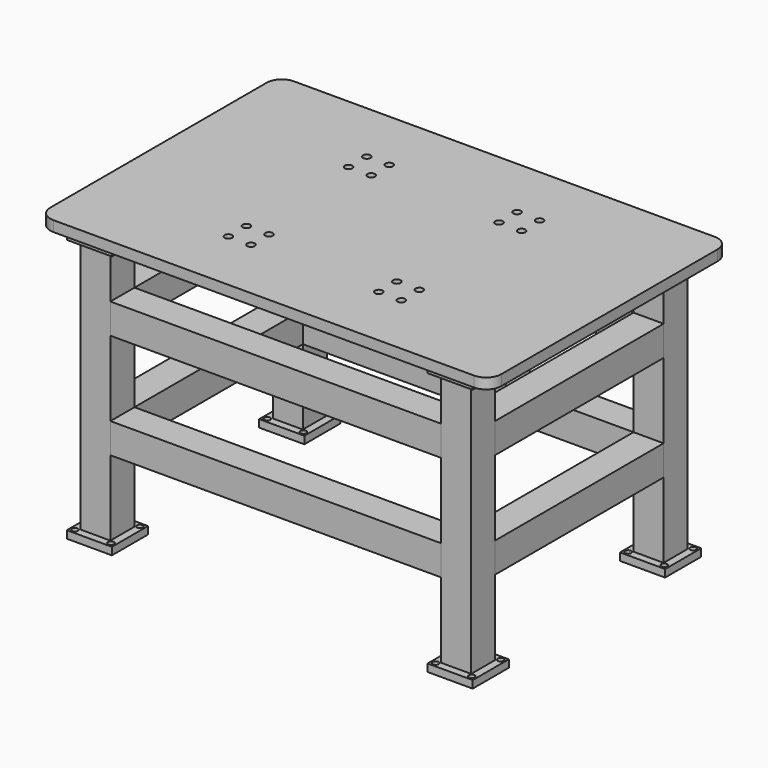
from build123d import *

# Parameters (mm, degrees)
F0_W      = 150
F0_H      = 150
F0_R      = 10
F1_DEPTH  = 25
F2_W      = 100
F2_H      = 100
F2_W_2    = 90
F2_H_2    = 90
F3_DEPTH  = 850
F4_W      = 150
F4_H      = 150
F4_R      = 10
F5_DEPTH  = 25
F6_W      = 100
F6_H      = 100
F6_W_2    = 90
F6_H_2    = 90
F7_DEPTH  = 1100
F8_W      = 100
F8_H      = 100
F8_W_2    = 90
F8_H_2    = 90
F9_DEPTH  = 700
F10_W     = 1500
F10_H     = 1000
F11_DEPTH = 35
F12_R     = 10
F13_DEPTH = 20
F14_R     = 50
F15_R     = 12.5
F16_DEPTH = 35


with BuildPart() as f1:
    # F0 (on Top) → F1 (new body)
    with BuildSketch(Plane.XY):
        with Locations((-600, 400)):
            Rectangle(F0_W, F0_H)
        with Locations((-660, 340)):
            Circle(F0_R, mode=Mode.SUBTRACT)
        with Locations((-540, 340)):
            Circle(F0_R, mode=Mode.SUBTRACT)
        with Locations((-660, 460)):
            Circle(F0_R, mode=Mode.SUBTRACT)
        with Locations((-540, 460)):
            Circle(F0_R, mode=Mode.SUBTRACT)
        with Locations((600, 400)):
            Rectangle(F0_W, F0_H)
        with Locations((540, 340)):
            Circle(F0_R, mode=Mode.SUBTRACT)
        with Locations((660, 340)):
            Circle(F0_R, mode=Mode.SUBTRACT)
        with Locations((540, 460)):
            Circle(F0_R, mode=Mode.SUBTRACT)
        with Locations((660, 460)):
            Circle(F0_R, mode=Mode.SUBTRACT)
        Polygon((675, -475), (675, -325), (525, -325), (525, -400), (525, -475), align=None)
        with Locations((540, -460)):
            Circle(F0_R, mode=Mode.SUBTRACT)
        with Locations((660, -460)):
            Circle(F0_R, mode=Mode.SUBTRACT)
        with Locations((540, -340)):
            Circle(F0_R, mode=Mode.SUBTRACT)
        with Locations((660, -340)):
            Circle(F0_R, mode=Mode.SUBTRACT)
        Polygon((-525, -475), (-525, -400), (-525, -325), (-675, -325), (-675, -475), align=None)
        with Locations((-660, -460)):
            Circle(F0_R, mode=Mode.SUBTRACT)
        with Locations((-540, -460)):
            Circle(F0_R, mode=Mode.SUBTRACT)
        with Locations((-660, -340)):
            Circle(F0_R, mode=Mode.SUBTRACT)
        with Locations((-540, -340)):
            Circle(F0_R, mode=Mode.SUBTRACT)
    extrude(amount=F1_DEPTH)

    # F2 (on face) → F3 (join)
    with BuildSketch(Plane.XY.offset(25)):
        with Locations((-600, 400)):
            Rectangle(F2_W, F2_H)
        with Locations((-600, 400)):
            Rectangle(F2_W_2, F2_H_2, mode=Mode.SUBTRACT)
        with Locations((600, 400)):
            Rectangle(F2_W, F2_H)
        with Locations((600, 400)):
            Rectangle(F2_W_2, F2_H_2, mode=Mode.SUBTRACT)
        with Locations((600, -400)):
            Rectangle(F2_W, F2_H)
        with Locations((600, -400)):
            Rectangle(F2_W_2, F2_H_2, mode=Mode.SUBTRACT)
        with Locations((-600, -400)):
            Rectangle(F2_W, F2_H)
        with Locations((-600, -400)):
            Rectangle(F2_W_2, F2_H_2, mode=Mode.SUBTRACT)
    extrude(amount=F3_DEPTH)

    # F4 (on face) → F5 (join)
    with BuildSketch(Plane.XY.offset(875)):
        with Locations((-600, 400)):
            Rectangle(F4_W, F4_H)
        with Locations((-660, 340)):
            Circle(F4_R, mode=Mode.SUBTRACT)
        with Locations((-540, 340)):
            Circle(F4_R, mode=Mode.SUBTRACT)
        with Locations((-660, 460)):
            Circle(F4_R, mode=Mode.SUBTRACT)
        with Locations((-540, 460)):
            Circle(F4_R, mode=Mode.SUBTRACT)
        Polygon((-675, -325), (-675, -400), (-600, -400), (-525, -400), (-525, -325), align=None)
        with Locations((-660, -340)):
            Circle(F4_R, mode=Mode.SUBTRACT)
        with Locations((-540, -340)):
            Circle(F4_R, mode=Mode.SUBTRACT)
        Polygon((525, -325), (525, -400), (525, -475), (675, -475), (675, -325), align=None)
        with Locations((540, -460)):
            Circle(F4_R, mode=Mode.SUBTRACT)
        with Locations((660, -460)):
            Circle(F4_R, mode=Mode.SUBTRACT)
        with Locations((540, -340)):
            Circle(F4_R, mode=Mode.SUBTRACT)
        with Locations((660, -340)):
            Circle(F4_R, mode=Mode.SUBTRACT)
        Polygon((-600, -400), (-675, -400), (-675, -475), (-525, -475), (-525, -400), align=None)
        with Locations((-660, -460)):
            Circle(F4_R, mode=Mode.SUBTRACT)
        with Locations((-540, -460)):
            Circle(F4_R, mode=Mode.SUBTRACT)
        with Locations((600, 400)):
            Rectangle(F4_W, F4_H)
        with Locations((540, 340)):
            Circle(F4_R, mode=Mode.SUBTRACT)
        with Locations((660, 340)):
            Circle(F4_R, mode=Mode.SUBTRACT)
        with Locations((540, 460)):
            Circle(F4_R, mode=Mode.SUBTRACT)
        with Locations((660, 460)):
            Circle(F4_R, mode=Mode.SUBTRACT)
    extrude(amount=F5_DEPTH)


with BuildPart() as f7:
    # F6 (on face) → F7 (new body, through all)
    with BuildSketch(Plane(origin=(550, 0, 0), x_dir=(0, -1, 0), z_dir=(-1, 0, 0))):
        with Locations((400, 675)):
            Rectangle(F6_W, F6_H)
        with Locations((400, 675)):
            Rectangle(F6_W_2, F6_H_2, mode=Mode.SUBTRACT)
        with Locations((400, 325)):
            Rectangle(F6_W, F6_H)
        with Locations((400, 325)):
            Rectangle(F6_W_2, F6_H_2, mode=Mode.SUBTRACT)
        with Locations((-400, 675)):
            Rectangle(F6_W, F6_H)
        with Locations((-400, 675)):
            Rectangle(F6_W_2, F6_H_2, mode=Mode.SUBTRACT)
        with Locations((-400, 325)):
            Rectangle(F6_W, F6_H)
        with Locations((-400, 325)):
            Rectangle(F6_W_2, F6_H_2, mode=Mode.SUBTRACT)
    extrude(amount=F7_DEPTH)


with BuildPart() as f9:
    # F8 (on face) → F9 (new body, through all)
    with BuildSketch(Plane(origin=(0, -350, 0), x_dir=(-1, 0, 0), z_dir=(0, 1, 0))):
        with Locations((-600, 675)):
            Rectangle(F8_W, F8_H)
        with Locations((-600, 675)):
            Rectangle(F8_W_2, F8_H_2, mode=Mode.SUBTRACT)
        with Locations((-600, 325)):
            Rectangle(F8_W, F8_H)
        with Locations((-600, 325)):
            Rectangle(F8_W_2, F8_H_2, mode=Mode.SUBTRACT)
        with Locations((600, 675)):
            Rectangle(F8_W, F8_H)
        with Locations((600, 675)):
            Rectangle(F8_W_2, F8_H_2, mode=Mode.SUBTRACT)
        with Locations((600, 325)):
            Rectangle(F8_W, F8_H)
        with Locations((600, 325)):
            Rectangle(F8_W_2, F8_H_2, mode=Mode.SUBTRACT)
    extrude(amount=F9_DEPTH)


with BuildPart() as f11:
    # F10 (on face) → F11 (new body)
    with BuildSketch(Plane.XY.offset(900)):
        Rectangle(F10_W, F10_H)
    extrude(amount=F11_DEPTH)

    # F12 (on face) → F13 (cut)
    with BuildSketch(Plane(origin=(0, 0, 900), x_dir=(1, 0, 0), z_dir=(0, 0, -1))):
        with Locations((-660, -460)):
            Circle(F12_R)
        with Locations((-660, -340)):
            Circle(F12_R)
        with Locations((-540, -340)):
            Circle(F12_R)
        with Locations((-540, -460)):
            Circle(F12_R)
        with Locations((-660, 340)):
            Circle(F12_R)
        with Locations((-660, 460)):
            Circle(F12_R)
        with Locations((-540, 460)):
            Circle(F12_R)
        with Locations((-540, 340)):
            Circle(F12_R)
        with Locations((540, 460)):
            Circle(F12_R)
        with Locations((660, 460)):
            Circle(F12_R)
        with Locations((660, 340)):
            Circle(F12_R)
        with Locations((540, 340)):
            Circle(F12_R)
        with Locations((660, -340)):
            Circle(F12_R)
        with Locations((540, -340)):
            Circle(F12_R)
        with Locations((660, -460)):
            Circle(F12_R)
        with Locations((540, -460)):
            Circle(F12_R)
    extrude(amount=-F13_DEPTH, mode=Mode.SUBTRACT)

    # F14
    f14_edges = [f11.edges().sort_by_distance(p)[0] for p in [
        (750, 500, 917.5),
        (750, -500, 917.5),
        (-750, 500, 917.5),
        (-750, -500, 917.5),
    ]]
    fillet(f14_edges, radius=F14_R)

    # F15 (on face) → F16 (cut, through all)
    with BuildSketch(Plane.XY.offset(935)):
        with Locations((-287.5, 287.5)):
            Circle(F15_R)
        with Locations((-212.5, 287.5)):
            Circle(F15_R)
        with Locations((-287.5, 212.5)):
            Circle(F15_R)
        with Locations((-212.5, 212.5)):
            Circle(F15_R)
        with Locations((212.5, 287.5)):
            Circle(F15_R)
        with Locations((287.5, 287.5)):
            Circle(F15_R)
        with Locations((212.5, 212.5)):
            Circle(F15_R)
        with Locations((287.5, 212.5)):
            Circle(F15_R)
        with Locations((287.5, -287.5)):
            Circle(F15_R)
        with Locations((212.5, -287.5)):
            Circle(F15_R)
        with Locations((-212.5, -287.5)):
            Circle(F15_R)
        with Locations((-287.5, -287.5)):
            Circle(F15_R)
        with Locations((287.5, -212.5)):
            Circle(F15_R)
        with Locations((212.5, -212.5)):
            Circle(F15_R)
        with Locations((-212.5, -212.5)):
            Circle(F15_R)
        with Locations((-287.5, -212.5)):
            Circle(F15_R)
    extrude(amount=-F16_DEPTH, mode=Mode.SUBTRACT)


solid = Compound([f1.part, f7.part, f9.part, f11.part])
